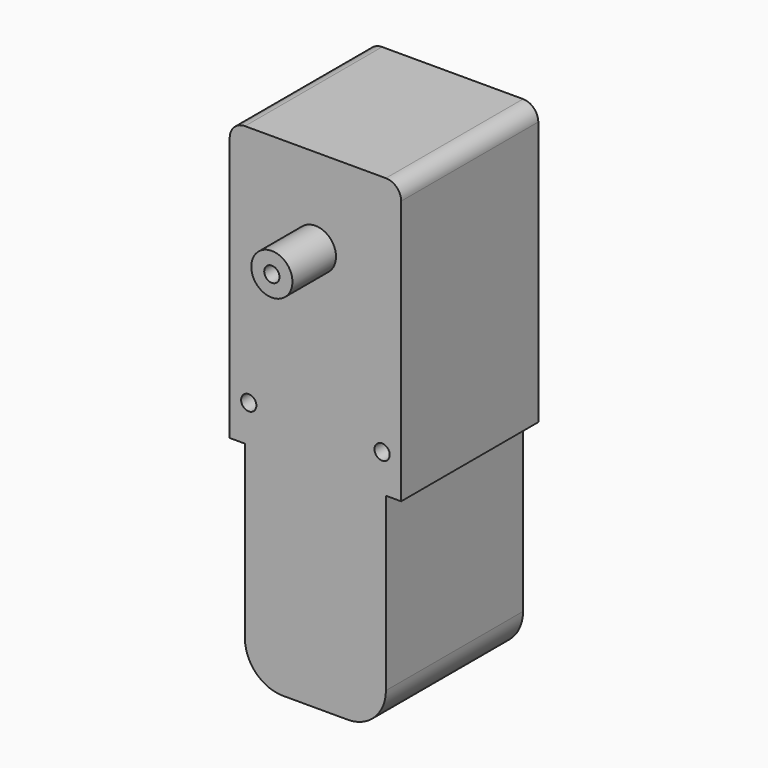
from build123d import *

# Parameters (mm, degrees)
F0_R     = 1
F1_DEPTH = 11.25
F2_R     = 2.7
F2_R_2   = 1
F3_DEPTH = 18.4


with BuildPart() as f1:
    # F0 (on Front) → F1 (new body, symmetric)
    with BuildSketch(Plane.XZ):
        with BuildLine():
            ThreePointArc((11.25, 30.1), (10.6642135624, 31.5142135624), (9.25, 32.1))
            Line((9.25, 32.1), (-9.25, 32.1))
            ThreePointArc((-9.25, 32.1), (-10.6642135624, 31.5142135624), (-11.25, 30.1))
            Line((-11.25, 30.1), (-11.25, -4.5884335414))
            Line((-11.25, -4.5884335414), (-9.25, -4.5884335414))
            Line((-9.25, -4.5884335414), (9.25, -4.5884335414))
            Line((9.25, -4.5884335414), (11.25, -4.5884335414))
            Line((11.25, -4.5884335414), (11.25, 30.1))
        make_face()
        with Locations((-8.75, 0.3)):
            Circle(F0_R, mode=Mode.SUBTRACT)
        with Locations((8.75, 0.3)):
            Circle(F0_R, mode=Mode.SUBTRACT)
        with BuildLine():
            Line((9.25, -27.1), (9.25, -4.5884335414))
            Line((9.25, -4.5884335414), (-9.25, -4.5884335414))
            Line((-9.25, -4.5884335414), (-9.25, -27.1))
            ThreePointArc((-9.25, -27.1), (-7.7855339059, -30.6355339059), (-4.25, -32.1))
            Line((-4.25, -32.1), (4.25, -32.1))
            ThreePointArc((4.25, -32.1), (7.7855339059, -30.6355339059), (9.25, -27.1))
        make_face()
    extrude(amount=F1_DEPTH, both=True)

    # F2 (on Front) → F3 (join, symmetric)
    with BuildSketch(Plane.XZ):
        with Locations((0, 20.9)):
            Circle(F2_R)
        with Locations((0, 20.9)):
            Circle(F2_R_2, mode=Mode.SUBTRACT)
    extrude(amount=F3_DEPTH, both=True)


solid = f1.part
